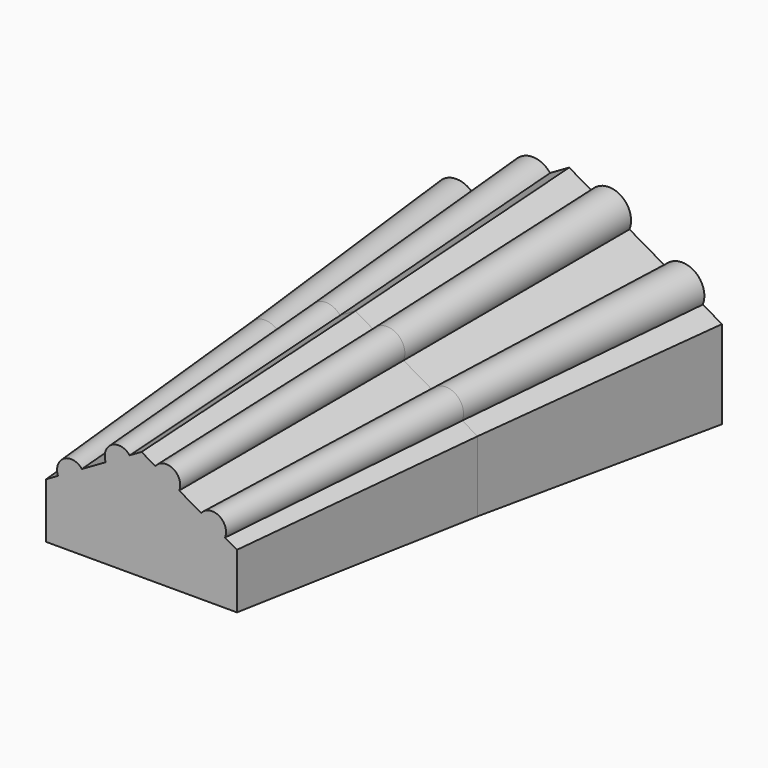
from build123d import *


with BuildPart() as f7:
    # F5 (on offset) → F7 section 0
    with BuildSketch(Plane.XZ.offset(10.5)):
        with BuildLine():
            Line((1.1014990962, -0.9229941527), (1.1014990962, -0.2013063162))
            Line((1.1014990962, -0.2013063162), (0.9452490962, -0.1110953366))
            ThreePointArc((0.9452490962, -0.1110953366), (0.8666157096, 0.1135515608), (0.6327490962, 0.0693266225))
            Line((0.6327490962, 0.0693266225), (0.3449405504, 0.2354929639))
            ThreePointArc((0.3449405504, 0.2354929639), (0.2668155504, 0.4610204128), (0.0324405504, 0.415914923))
            Line((0.0324405504, 0.415914923), (-0.1485009038, 0.5203815203))
            Line((-0.1485009038, 0.5203815203), (-0.3047509038, 0.4301705407))
            ThreePointArc((-0.3047509038, 0.4301705407), (-0.5391259038, 0.4752760305), (-0.6172509038, 0.2497485816))
            Line((-0.6172509038, 0.2497485816), (-0.9297509038, 0.0693266225))
            ThreePointArc((-0.9297509038, 0.0693266225), (-1.1636175172, 0.1135515608), (-1.2422509038, -0.1110953366))
            Line((-1.2422509038, -0.1110953366), (-1.3985009038, -0.2013063162))
            Line((-1.3985009038, -0.2013063162), (-1.3985009038, -0.9229941527))
            Line((-1.3985009038, -0.9229941527), (1.1014990962, -0.9229941527))
        make_face()
    # F4 (on offset) → F7 section 1
    with BuildSketch(Plane.XZ.offset(7)):
        with BuildLine():
            Line((1.4514990962, -1.1250667469), (1.4514990962, -0.2013063162))
            Line((1.4514990962, -0.2013063162), (1.2514990962, -0.0858362624))
            ThreePointArc((1.2514990962, -0.0858362624), (1.1508483613, 0.2017117664), (0.8514990962, 0.1451038453))
            Line((0.8514990962, 0.1451038453), (0.4831041575, 0.3577967623))
            ThreePointArc((0.4831041575, 0.3577967623), (0.3831041575, 0.6464718969), (0.0831041575, 0.58873687))
            Line((0.0831041575, 0.58873687), (-0.1485009038, 0.7224541145))
            Line((-0.1485009038, 0.7224541145), (-0.3485009038, 0.6069840607))
            ThreePointArc((-0.3485009038, 0.6069840607), (-0.6485009038, 0.6647190876), (-0.7485009038, 0.376043953))
            Line((-0.7485009038, 0.376043953), (-1.1485009038, 0.1451038453))
            ThreePointArc((-1.1485009038, 0.1451038453), (-1.447850169, 0.2017117664), (-1.5485009038, -0.0858362624))
            Line((-1.5485009038, -0.0858362624), (-1.7485009038, -0.2013063162))
            Line((-1.7485009038, -0.2013063162), (-1.7485009038, -1.1250667469))
            Line((-1.7485009038, -1.1250667469), (1.4514990962, -1.1250667469))
        make_face()
    loft()

    # F3 (on offset) → F8 section 0
    with BuildSketch(Plane.XZ.offset(3.5)):
        with BuildLine():
            Line((1.8514990962, -1.3560068546), (1.8514990962, -0.2013063162))
            Line((1.8514990962, -0.2013063162), (1.6014990962, -0.0569687489))
            ThreePointArc((1.6014990962, -0.0569687489), (1.4756856776, 0.3024662871), (1.1014990962, 0.2317063857))
            Line((1.1014990962, 0.2317063857), (0.6410054229, 0.4975725319))
            ThreePointArc((0.6410054229, 0.4975725319), (0.5160054229, 0.8584164502), (0.1410054229, 0.7862476665))
            Line((0.1410054229, 0.7862476665), (-0.1485009038, 0.9533942222))
            Line((-0.1485009038, 0.9533942222), (-0.3985009038, 0.8090566549))
            ThreePointArc((-0.3985009038, 0.8090566549), (-0.7735009038, 0.8812254385), (-0.8985009038, 0.5203815203))
            Line((-0.8985009038, 0.5203815203), (-1.3985009038, 0.2317063857))
            ThreePointArc((-1.3985009038, 0.2317063857), (-1.7726874853, 0.3024662871), (-1.8985009038, -0.0569687489))
            Line((-1.8985009038, -0.0569687489), (-2.1485009038, -0.2013063162))
            Line((-2.1485009038, -0.2013063162), (-2.1485009038, -1.3560068546))
            Line((-2.1485009038, -1.3560068546), (1.8514990962, -1.3560068546))
        make_face()
    # F7_face (on face) → F8 section 1
    with BuildSketch(Plane(origin=(-0.1480313647, -7, -0.3630261389), x_dir=(-1, 0, 0), z_dir=(0, 1, 0))):
        with BuildLine():
            Line((1.6004695391, -0.762040608), (1.6004695391, 0.1617198227))
            Line((1.6004695391, 0.1617198227), (1.4004695391, 0.2771898766))
            ThreePointArc((1.4004695391, 0.2771898766), (1.2998188042, 0.5647379053), (1.0004695391, 0.5081299842))
            Line((1.0004695391, 0.5081299842), (0.6004695391, 0.7390700919))
            ThreePointArc((0.6004695391, 0.7390700919), (0.5004695391, 1.0277452265), (0.2004695391, 0.9700101996))
            Line((0.2004695391, 0.9700101996), (0.0004695391, 1.0854802534))
            Line((0.0004695391, 1.0854802534), (-0.2311355222, 0.9517630089))
            ThreePointArc((-0.2311355222, 0.9517630089), (-0.5311355222, 1.0094980358), (-0.6311355222, 0.7208229012))
            Line((-0.6311355222, 0.7208229012), (-0.9995304609, 0.5081299842))
            ThreePointArc((-0.9995304609, 0.5081299842), (-1.2988797261, 0.5647379053), (-1.3995304609, 0.2771898766))
            Line((-1.3995304609, 0.2771898766), (-1.5995304609, 0.1617198227))
            Line((-1.5995304609, 0.1617198227), (-1.5995304609, -0.762040608))
            Line((-1.5995304609, -0.762040608), (1.6004695391, -0.762040608))
        make_face()
    loft()


solid = f7.part
